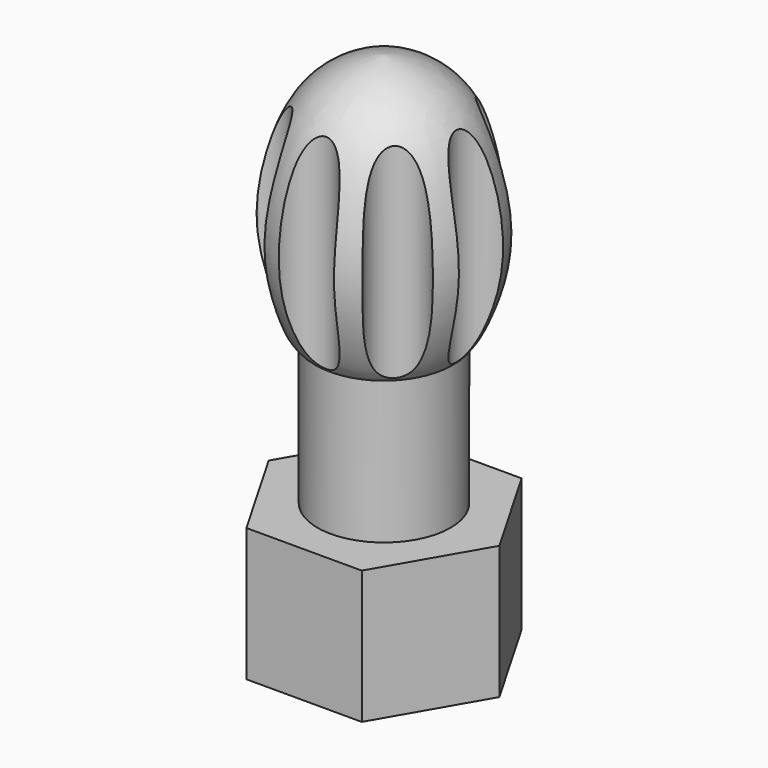
from build123d import *

# Parameters (mm, degrees)
F1_DEPTH  = 12
F3_DEPTH  = 10
F4_R      = 6
F5_DEPTH  = 25
F6_R      = 4.1
F7_DEPTH  = 20
F11_DEPTH = 35


with BuildPart() as f1:
    # F0 (on Top) → F1 (new body)
    with BuildSketch(Plane.XY):
        Polygon((-5.1961524227, -9), (5.1961524227, -9), (10.3923048454, 0), (5.1961524227, 9), (-5.1961524227, 9), (-10.3923048454, 0), align=None)
    extrude(amount=F1_DEPTH)

    # F2 (on Top) → F3 (cut)
    with BuildSketch(Plane.XY):
        Polygon((-4.0991869112, -7.1), (4.0991869112, -7.1), (8.1983738225, 0), (4.0991869112, 7.1), (-4.0991869112, 7.1), (-8.1983738225, 0), align=None)
    extrude(amount=F3_DEPTH, mode=Mode.SUBTRACT)

    # F4 (on face) → F5 (join)
    with BuildSketch(Plane.XY.offset(12)):
        Circle(F4_R)
    extrude(amount=F5_DEPTH)

    # F6 (on face) → F7 (cut)
    with BuildSketch(Plane(origin=(0, 0, 10), x_dir=(1, 0, 0), z_dir=(0, 0, -1))):
        Circle(F6_R)
    extrude(amount=-F7_DEPTH, mode=Mode.SUBTRACT)

    # F8 (on Front) → F9 (revolve)
    with BuildSketch(Plane.XZ):
        with BuildLine():
            Line((0, 30.9714246541), (0, 47.5902929902))
            add(Edge.make_bspline(
                [(0, 47.5902929902), (-1.7343373701, 47.3815597202), (-6.0133093933, 45.6140725589), (-8.7180742618, 39.2730011982), (-9.7320500923, 31.4405730742), (-6.0496653854, 23.5365002645), (-4.7999502468, 26.1464529066), (-5.4844191464, 29.9469896934), (-1.3832891909, 31.5982887464), (0, 30.9714246541)],
                knots=[0, 0, 0, 0, 0.1536678402, 0.3161387849, 0.5033209768, 0.6670602816, 0.7411666213, 0.862207157, 1, 1, 1, 1], degree=3))
        make_face()
    revolve(axis=Axis((0, 0, 23.7951464951), (0, 0, 1)))

    # F10 (on face) → F11 (cut)
    with BuildSketch(Plane.XY.offset(12)):
        with BuildLine():
            ThreePointArc((-2.5, -9), (0, -11.5), (2.5, -9))
            Line((2.5, -9), (-2.5, -9))
        make_face()
        with BuildLine():
            Line((-2.5, -9), (2.5, -9))
            ThreePointArc((2.5, -9), (0, -6.5), (-2.5, -9))
        make_face()
        with BuildLine():
            ThreePointArc((8.8639610307, -6.3639610307), (8.6017450223, -5.249365675), (7.8701027851, -4.3685821154))
            Line((7.8701027851, -4.3685821154), (5.3889830771, -8.6660075094))
            ThreePointArc((5.3889830771, -8.6660075094), (7.7446411377, -8.4481209195), (8.8639610307, -6.3639610307))
        make_face()
        with BuildLine():
            Line((5.3889830771, -8.6660075094), (7.8701027851, -4.3685821154))
            ThreePointArc((7.8701027851, -4.3685821154), (4.1988975212, -5.1139610307), (5.3889830771, -8.6660075094))
        make_face()
        with BuildLine():
            ThreePointArc((11.5, 0), (10.749723862, 1.7856277347), (8.9492268746, 2.4994843648))
            Line((8.9492268746, 2.4994843648), (10.3923048454, 0))
            Line((10.3923048454, 0), (8.9492268746, -2.4994843648))
            ThreePointArc((8.9492268746, -2.4994843648), (10.749723862, -1.7856277347), (11.5, 0))
        make_face()
        with BuildLine():
            Line((10.3923048454, 0), (8.9492268746, 2.4994843648))
            ThreePointArc((8.9492268746, 2.4994843648), (6.5, 0), (8.9492268746, -2.4994843648))
            Line((8.9492268746, -2.4994843648), (10.3923048454, 0))
        make_face()
        with BuildLine():
            Line((-5.3889830771, -8.6660075094), (-7.8701027851, -4.3685821154))
            ThreePointArc((-7.8701027851, -4.3685821154), (-8.5290245401, -7.6139610307), (-5.3889830771, -8.6660075094))
        make_face()
        with BuildLine():
            ThreePointArc((-3.8639610307, -6.3639610307), (-5.249365675, -4.1261770391), (-7.8701027851, -4.3685821154))
            Line((-7.8701027851, -4.3685821154), (-5.3889830771, -8.6660075094))
            ThreePointArc((-5.3889830771, -8.6660075094), (-4.2798011419, -7.7446411377), (-3.8639610307, -6.3639610307))
        make_face()
        with BuildLine():
            Line((-10.3923048454, 0), (-8.9492268746, 2.4994843648))
            ThreePointArc((-8.9492268746, 2.4994843648), (-11.5, 0), (-8.9492268746, -2.4994843648))
            Line((-8.9492268746, -2.4994843648), (-10.3923048454, 0))
        make_face()
        with BuildLine():
            ThreePointArc((-6.5, 0), (-7.2143722653, 1.749723862), (-8.9492268746, 2.4994843648))
            Line((-8.9492268746, 2.4994843648), (-10.3923048454, 0))
            Line((-10.3923048454, 0), (-8.9492268746, -2.4994843648))
            ThreePointArc((-8.9492268746, -2.4994843648), (-7.2143722653, -1.749723862), (-6.5, 0))
        make_face()
        with BuildLine():
            Line((-7.8701027851, 4.3685821154), (-5.3889830771, 8.6660075094))
            ThreePointArc((-5.3889830771, 8.6660075094), (-8.5290245401, 7.6139610307), (-7.8701027851, 4.3685821154))
        make_face()
        with BuildLine():
            ThreePointArc((-3.8639610307, 6.3639610307), (-4.2798011419, 7.7446411377), (-5.3889830771, 8.6660075094))
            Line((-5.3889830771, 8.6660075094), (-7.8701027851, 4.3685821154))
            ThreePointArc((-7.8701027851, 4.3685821154), (-5.249365675, 4.1261770391), (-3.8639610307, 6.3639610307))
        make_face()
        with BuildLine():
            Line((-2.5, 9), (2.5, 9))
            ThreePointArc((2.5, 9), (0, 11.5), (-2.5, 9))
        make_face()
        with BuildLine():
            ThreePointArc((-2.5, 9), (0, 6.5), (2.5, 9))
            Line((2.5, 9), (-2.5, 9))
        make_face()
        with BuildLine():
            ThreePointArc((8.8639610307, 6.3639610307), (7.7446411377, 8.4481209195), (5.3889830771, 8.6660075094))
            Line((5.3889830771, 8.6660075094), (7.8701027851, 4.3685821154))
            ThreePointArc((7.8701027851, 4.3685821154), (8.6017450223, 5.249365675), (8.8639610307, 6.3639610307))
        make_face()
        with BuildLine():
            Line((7.8701027851, 4.3685821154), (5.3889830771, 8.6660075094))
            ThreePointArc((5.3889830771, 8.6660075094), (4.1988975212, 5.1139610307), (7.8701027851, 4.3685821154))
        make_face()
    extrude(amount=F11_DEPTH, mode=Mode.SUBTRACT)


solid = f1.part
